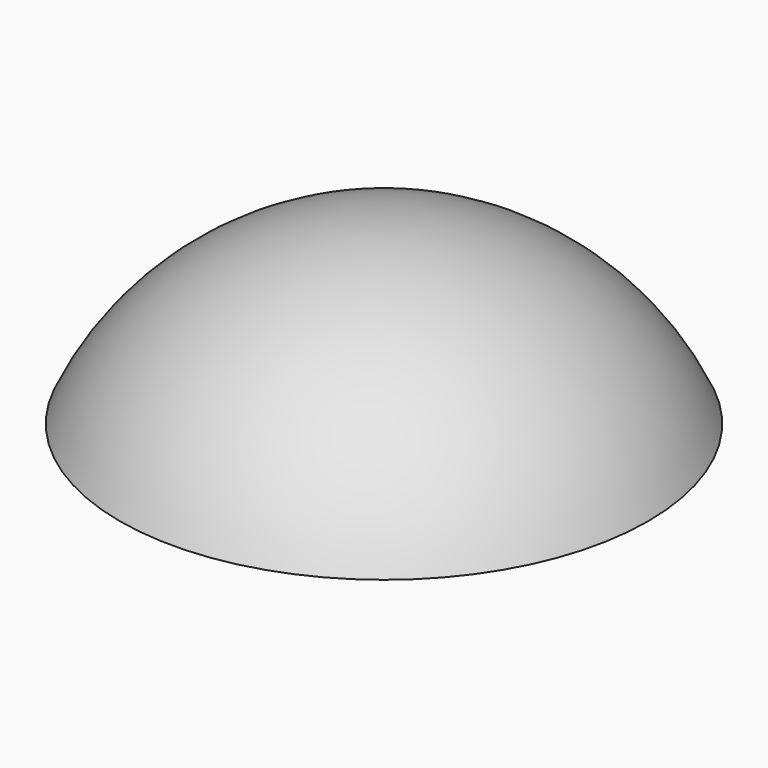
from build123d import *

# Parameters (mm, degrees)
CYLINDER023_R            = 1.75
CYLINDER023_DEPTH        = 80
CYLINDER023_PITCH_ANGLE  = 90
CYLINDER022_R            = 1.75
CYLINDER022_DEPTH        = 80
CYLINDER022_PITCH_ANGLE  = 90
BOX017_W                 = 134
BOX017_H                 = 14
BOX017_DEPTH             = 4
BOX017_PLACEMENT_ANGLE   = 90
PAD026_DEPTH             = 20
CLONE137_PLACEMENT_ANGLE = 180
BOX015_W                 = 400
BOX015_H                 = 400
BOX015_DEPTH             = 185
BOX016_W                 = 134
BOX016_H                 = 14
BOX016_DEPTH             = 4


with BuildPart() as cilindro019:
    # Cylinder023 → Cylinder023 (new body)
    with BuildSketch(Plane.XY):
        Circle(CYLINDER023_R)
    extrude(amount=CYLINDER023_DEPTH)


with BuildPart() as cilindro019_1:
    # Cylinder023 pitch: moved
    add(cilindro019.part.rotate(Axis((0, 0, 0), (0, 1, 0)), CYLINDER023_PITCH_ANGLE))


with BuildPart() as cilindro019_2:
    # Cylinder023 placement: moved
    add(cilindro019_1.part.moved(Location((-40, -5.5, 37.5))))


with BuildPart() as fusion024:
    # Cylinder022 → Cylinder022 (new body)
    with BuildSketch(Plane.XY):
        Circle(CYLINDER022_R)
    extrude(amount=CYLINDER022_DEPTH)


with BuildPart() as fusion024_1:
    # Cylinder022 pitch: moved
    add(fusion024.part.rotate(Axis((0, 0, 0), (0, 1, 0)), CYLINDER022_PITCH_ANGLE))


with BuildPart() as fusion024_2:
    # Cylinder022 placement: moved
    add(fusion024_1.part.moved(Location((-40, 5.5, 37.5))))

    # Fusion024: union Cilindro019
    add(cilindro019_2.part)


with BuildPart() as cubo017:
    # Box017 → Box017 (new body)
    with BuildSketch(Plane.XY):
        with Locations((67, 7)):
            Rectangle(BOX017_W, BOX017_H)
    extrude(amount=BOX017_DEPTH)


with BuildPart() as cubo017_1:
    # Box017 placement: moved
    add(cubo017.part.moved(Location((7, -67, 47))).rotate(Axis((7, -67, 47), (0, 0, 1)), BOX017_PLACEMENT_ANGLE))


with BuildPart() as pad026:
    # Sketch024 → Pad026 (new body)
    with BuildSketch(Plane.XZ.offset(10)):
        Polygon((-25.98196, 33.981216), (-30.98196, 33.981216), (-30.98196, 75.756836), (-25.98196, 77.981216), align=None)
    extrude(amount=-PAD026_DEPTH)


with BuildPart() as clone_of_pad026:
    # Clone137 base: copy of Pad026
    add(pad026.part)


with BuildPart() as clone_of_pad026_1:
    # Clone137 placement: moved
    add(clone_of_pad026.part.moved(Location((0, 0, 0))).rotate(Axis((0, 0, 0), (0, 0, 1)), CLONE137_PLACEMENT_ANGLE))


with BuildPart() as esfera001:
    # Sphere001 → Sphere001 (revolve)
    with BuildSketch(Plane.XZ):
        with BuildLine():
            ThreePointArc((0, -82), (82, 0), (0, 82))
            Line((0, 82), (0, -82))
        make_face()
    revolve(axis=Axis((0, 0, 0), (0, 0, 1)))


with BuildPart() as cubo015:
    # Box015 → Box015 (new body)
    with BuildSketch(Plane(origin=(-200, -200, -150), x_dir=(1, 0, 0), z_dir=(0, 0, 1))):
        with Locations((200, 200)):
            Rectangle(BOX015_W, BOX015_H)
    extrude(amount=BOX015_DEPTH)


with BuildPart() as cut034:
    # Sphere → Sphere (revolve)
    with BuildSketch(Plane.XZ):
        with BuildLine():
            ThreePointArc((0, -85), (85, 0), (0, 85))
            Line((0, 85), (0, -85))
        make_face()
    revolve(axis=Axis((0, 0, 0), (0, 0, 1)))

    # Cut033: cut Cubo015
    add(cubo015.part, mode=Mode.SUBTRACT)

    # Cut034: cut Esfera001
    add(esfera001.part, mode=Mode.SUBTRACT)


with BuildPart() as cut035:
    # Box016 → Box016 (new body)
    with BuildSketch(Plane(origin=(-67, -7, 47), x_dir=(1, 0, 0), z_dir=(0, 0, 1))):
        with Locations((67, 7)):
            Rectangle(BOX016_W, BOX016_H)
    extrude(amount=BOX016_DEPTH)

    # Fusion023: union Cubo017, Pad026, Clone of Pad026, Cut034
    add(cubo017_1.part)
    add(pad026.part)
    add(clone_of_pad026_1.part)
    add(cut034.part)

    # Cut035: cut Fusion024
    add(fusion024_2.part, mode=Mode.SUBTRACT)


solid = cut035.part
